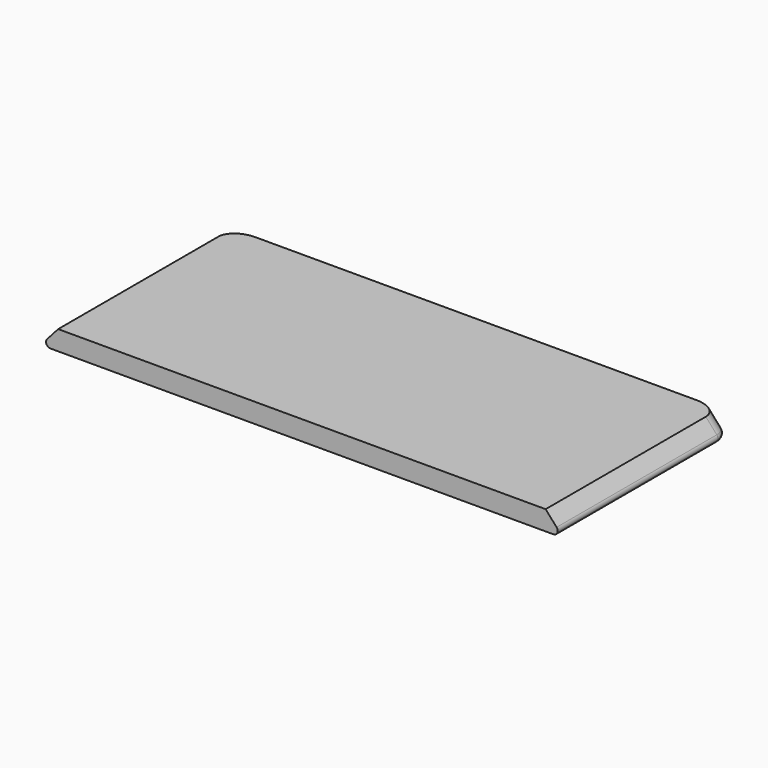
from build123d import *

# Parameters (mm, degrees)
EXTRUDE013_DEPTH = 25
FILLET039_R      = 2
FILLET040_R      = 0.5


with BuildPart() as part:
    # Sketch018 → Extrude013 (new body)
    with BuildSketch(Plane.XZ):
        Polygon((10.846248, 101.175052), (8.846248, 98.925052), (68.846248, 98.925052), (66.846248, 101.175052), align=None)
    extrude(amount=EXTRUDE013_DEPTH)


with BuildPart() as part_1:
    # Extrude013 placement: moved
    add(part.part.moved(Location((0.5, -6.5, 0))))

    # Fillet039
    fillet039_edges = [part_1.edges().sort_by_distance(p)[0] for p in [
        (10.346248, -6.5, 100.050052),
        (68.346248, -6.5, 100.050052),
    ]]
    fillet(fillet039_edges, radius=FILLET039_R)

    # Fillet040
    fillet040_edges = [part_1.edges().sort_by_distance(p)[0] for p in [
        (9.346248, -20, 98.925052),
        (69.346248, -20, 98.925052),
    ]]
    fillet(fillet040_edges, radius=FILLET040_R)


with BuildPart() as part_2:
    # Fillet040 placement: moved
    add(part_1.part.moved(Location((-0.5, 4.5, -11.18))))


solid = part_2.part
